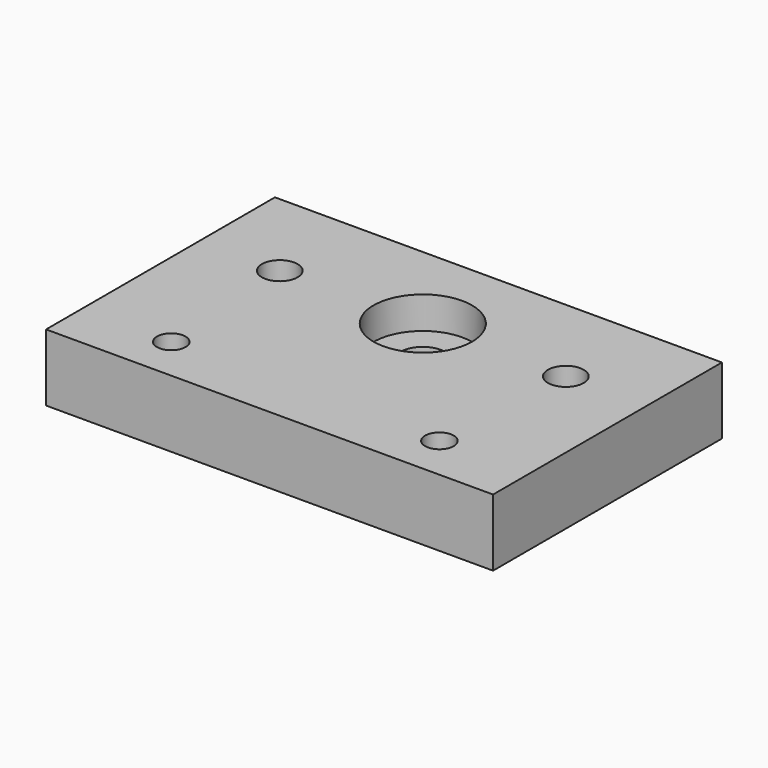
from build123d import *

# Parameters (mm, degrees)
SKETCH_W        = 100
SKETCH_H        = 64
SKETCH_R        = 5
SKETCH_R_2      = 3.2
SKETCH_R_3      = 4
PAD_DEPTH       = 15
SKETCH001_R     = 11.02
POCKET_DEPTH    = 7.2
SKETCH002_R     = 6
POCKET001_DEPTH = 7


with BuildPart() as part:
    # Sketch → Pad (new body)
    with BuildSketch(Plane.XY):
        with Locations((50, 32)):
            Rectangle(SKETCH_W, SKETCH_H)
        with Locations((50, 42.85)):
            Circle(SKETCH_R, mode=Mode.SUBTRACT)
        with Locations((20, 10)):
            Circle(SKETCH_R_2, mode=Mode.SUBTRACT)
        with Locations((80, 10)):
            Circle(SKETCH_R_2, mode=Mode.SUBTRACT)
        with Locations((82, 42.85)):
            Circle(SKETCH_R_3, mode=Mode.SUBTRACT)
        with Locations((18, 42.85)):
            Circle(SKETCH_R_3, mode=Mode.SUBTRACT)
    extrude(amount=PAD_DEPTH)

    # Sketch001 (on Face11 of Pad) → Pocket (cut)
    with BuildSketch(Plane.XY.offset(15)):
        with Locations((50, 42.85)):
            Circle(SKETCH001_R)
    extrude(amount=-POCKET_DEPTH, mode=Mode.SUBTRACT)

    # Sketch002 (on Face4 of Pocket) → Pocket001 (cut)
    with BuildSketch(Plane(origin=(0, 0, 0), x_dir=(1, 0, 0), z_dir=(0, 0, -1))):
        with Locations((20, -10)):
            Circle(SKETCH002_R)
        with Locations((80, -10)):
            Circle(SKETCH002_R)
    extrude(amount=-POCKET001_DEPTH, mode=Mode.SUBTRACT)


solid = part.part
